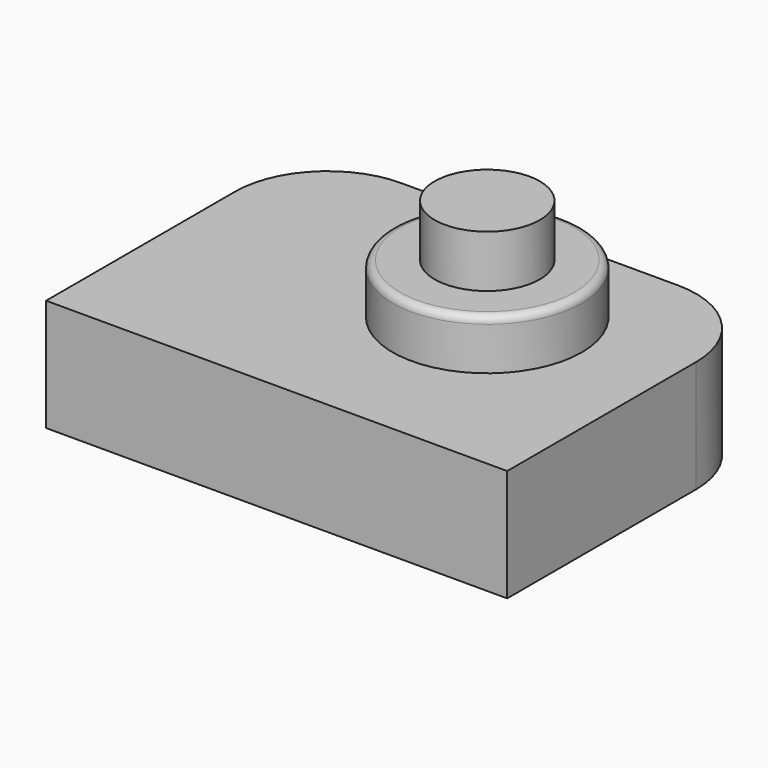
from build123d import *

# Parameters (mm, degrees)
F0_W     = 62.673188746
F0_H     = 44.6528419852
F2_DEPTH = 15.24
F5_R     = 12.8740091113
F5_R_2   = 7.1412124382
F6_DEPTH = 6.858
F7_R     = 1
F8_R     = 7.1412124382
F9_DEPTH = 7.1
F10_R    = 12.5539105243


with BuildPart() as f2:
    # F0 (on Top) → F2 (new body)
    with BuildSketch(Plane.XY):
        with Locations((-37.603829056, -22.3264209926)):
            Rectangle(F0_W, F0_H)
    extrude(amount=F2_DEPTH)

    # F5 (on face) → F6 (join)
    with BuildSketch(Plane.XY.offset(15.24)):
        with Locations((-29.9968216568, -18.3862540871)):
            Circle(F5_R)
        with Locations((-29.9968216568, -18.3862540871)):
            Circle(F5_R_2, mode=Mode.SUBTRACT)
    extrude(amount=F6_DEPTH)

    # F7
    f7_edges = [f2.edges().sort_by_distance(p)[0] for p in [
        (-42.870831, -18.386254, 22.098),
    ]]
    fillet(f7_edges, radius=F7_R)

    # F10
    f10_edges = [f2.edges().sort_by_distance(p)[0] for p in [
        (-68.940423, 0, 7.62),
        (-6.267235, 0, 7.62),
    ]]
    fillet(f10_edges, radius=F10_R)


with BuildPart() as f9:
    # F8 (on face) → F9 (new body)
    with BuildSketch(Plane.XY.offset(22.098)):
        with Locations((-29.9968216568, -18.3862540871)):
            Circle(F8_R)
    extrude(amount=F9_DEPTH)


solid = Compound([f2.part, f9.part])
